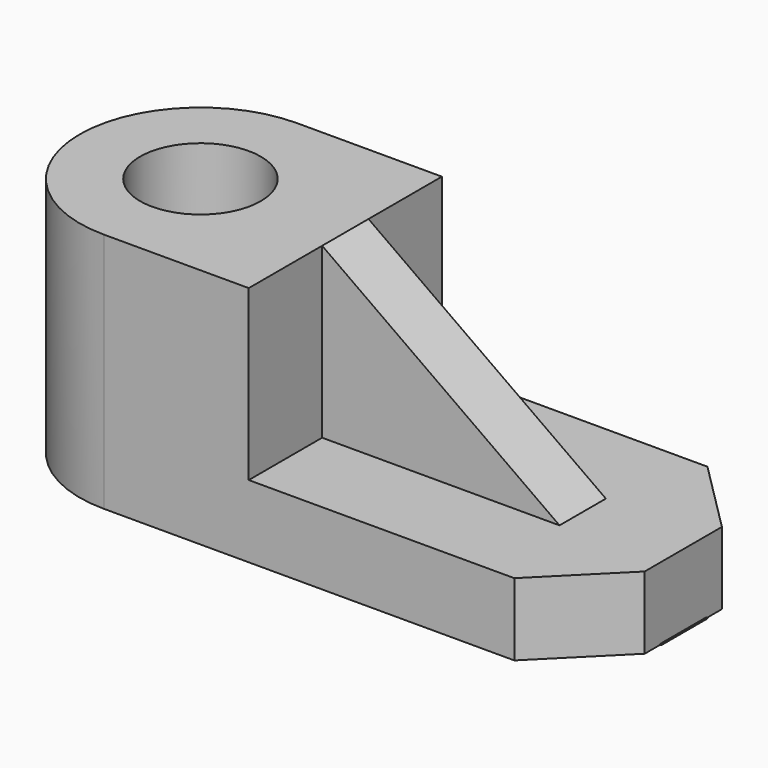
from build123d import *

# Parameters (mm, degrees)
F0_R     = 317.5
F1_DEPTH = 1270
F2_DEPTH = 381
F4_START = -482.6
F4_DEPTH = 304.8


with BuildPart() as f1:
    # F0 (on Top) → F1 (new body)
    with BuildSketch(Plane.XY):
        with BuildLine():
            ThreePointArc((0, 1270), (-635, 635), (0, 0))
            Line((0, 0), (762, 0))
            Line((762, 0), (762, 1270))
            Line((762, 1270), (0, 1270))
        make_face()
        with Locations((0, 635)):
            Circle(F0_R, mode=Mode.SUBTRACT)
    extrude(amount=F1_DEPTH)

    # F0 (on Top) → F2 (join)
    with BuildSketch(Plane.XY):
        with BuildLine():
            ThreePointArc((0, 1270), (-635, 635), (0, 0))
            Line((0, 0), (762, 0))
            Line((762, 0), (762, 1270))
            Line((762, 1270), (0, 1270))
        make_face()
        with Locations((0, 635)):
            Circle(F0_R, mode=Mode.SUBTRACT)
        Polygon((762, 1270), (762, 0), (2159, 0), (2540, 381), (2540, 889), (2159, 1270), align=None)
    extrude(amount=F2_DEPTH)


with BuildPart() as f4:
    # F3 (on face) → F4 (new body)
    with BuildSketch(Plane.XZ.offset(F4_START)):
        Polygon((2159, 275.4302958878), (2010.7138858795, 381), (762, 381), (762, 0), (2159, 0), align=None)
        Polygon((2010.7138858795, 381), (762, 1270), (762, 381), align=None)
        Polygon((2545.8769798279, 0), (2159, 275.4302958878), (2159, 0), align=None)
    extrude(amount=-F4_DEPTH)


solid = Compound([f1.part, f4.part])
